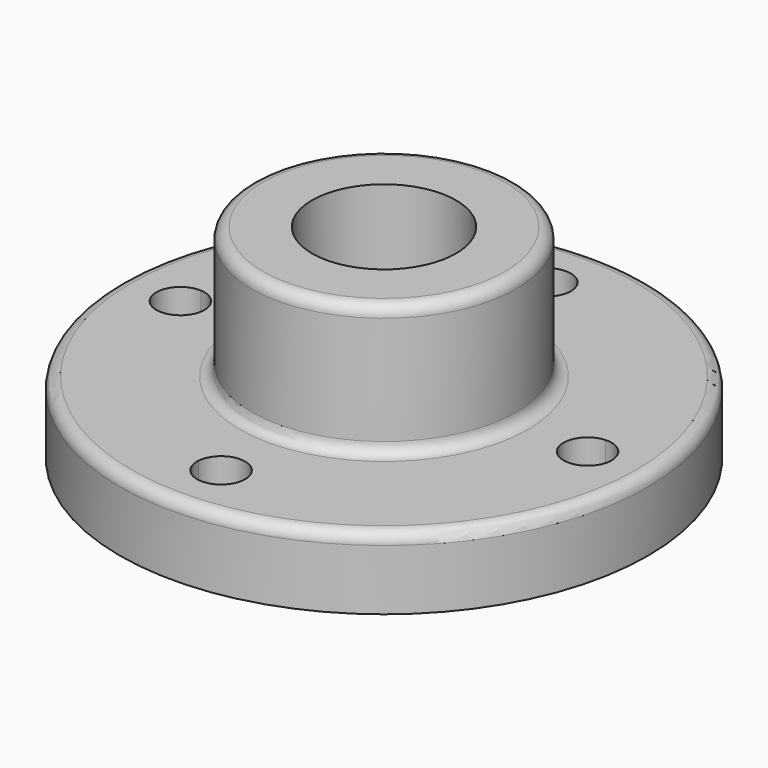
from build123d import *

# Parameters (mm, degrees)
F0_W     = 50.8
F0_H     = 19.05
F2_W     = 16.002
F2_H     = 34.798
F4_R     = 3.048
F6_DEPTH = 19.051


with BuildPart() as f1:
    # F0 (on Front) → F1 (revolve)
    with BuildSketch(Plane.XZ):
        with Locations((-44.45, 9.525)):
            Rectangle(F0_W, F0_H)
    revolve(axis=Axis((0, 0, 39.3560769007), (0, 0, 1)))

    # F2 (on Front) → F3 (revolve)
    with BuildSketch(Plane.XZ):
        with Locations((-27.051, 36.449)):
            Rectangle(F2_W, F2_H)
    revolve(axis=Axis((0, 0, 39.3560769007), (0, 0, 1)))

    # F4
    f4_edges = [f1.edges().sort_by_distance(p)[0] for p in [
        (35.052, 0, 53.848),
        (69.85, 0, 19.05),
        (35.052, 0, 19.05),
    ]]
    fillet(f4_edges, radius=F4_R)

    # F5 (on face) → F6 (cut, through all)
    with BuildSketch(Plane.XY.offset(19.05)):
        with BuildLine():
            ThreePointArc((-6.3389523479, 53.4735896226), (0, 47.498), (6.3389523479, 53.4735896226))
            ThreePointArc((6.3389523479, 53.4735896226), (0, 53.848), (-6.3389523479, 53.4735896226))
        make_face()
        with BuildLine():
            ThreePointArc((-6.3389523479, 53.4735896226), (0, 53.848), (6.3389523479, 53.4735896226))
            ThreePointArc((6.3389523479, 53.4735896226), (6.3472374861, 53.6607133338), (6.35, 53.848))
            ThreePointArc((6.35, 53.848), (-0.1872866662, 60.1952374861), (-6.3389523479, 53.4735896226))
        make_face()
        with BuildLine():
            ThreePointArc((-47.498, 0), (-49.2273936601, 4.3557429965), (-53.4735896226, 6.3389523479))
            ThreePointArc((-53.4735896226, 6.3389523479), (-53.848, 0), (-53.4735896226, -6.3389523479))
            ThreePointArc((-53.4735896226, -6.3389523479), (-49.2273936601, -4.3557429965), (-47.498, 0))
        make_face()
        with BuildLine():
            ThreePointArc((-53.4735896226, -6.3389523479), (-53.848, 0), (-53.4735896226, 6.3389523479))
            ThreePointArc((-53.4735896226, 6.3389523479), (-60.198, 0), (-53.4735896226, -6.3389523479))
        make_face()
        with BuildLine():
            ThreePointArc((53.4735896226, 6.3389523479), (53.7543159104, 3.175), (53.848, 0))
            ThreePointArc((53.848, 0), (53.7543159104, -3.175), (53.4735896226, -6.3389523479))
            ThreePointArc((53.4735896226, -6.3389523479), (58.2037429965, -4.6206063399), (60.198, 0))
            ThreePointArc((60.198, 0), (58.2037429965, 4.6206063399), (53.4735896226, 6.3389523479))
        make_face()
        with BuildLine():
            ThreePointArc((53.4735896226, -6.3389523479), (53.7543159104, -3.175), (53.848, 0))
            ThreePointArc((53.848, 0), (53.7543159104, 3.175), (53.4735896226, 6.3389523479))
            ThreePointArc((53.4735896226, 6.3389523479), (47.498, 0), (53.4735896226, -6.3389523479))
        make_face()
        with BuildLine():
            ThreePointArc((-6.3389523479, -53.4735896226), (0, -53.848), (6.3389523479, -53.4735896226))
            ThreePointArc((6.3389523479, -53.4735896226), (0, -47.498), (-6.3389523479, -53.4735896226))
        make_face()
        with BuildLine():
            ThreePointArc((6.35, -53.848), (6.3472374861, -53.6607133338), (6.3389523479, -53.4735896226))
            ThreePointArc((6.3389523479, -53.4735896226), (0, -53.848), (-6.3389523479, -53.4735896226))
            ThreePointArc((-6.3389523479, -53.4735896226), (-0.1872866662, -60.1952374861), (6.35, -53.848))
        make_face()
    extrude(amount=-F6_DEPTH, mode=Mode.SUBTRACT)


solid = f1.part
